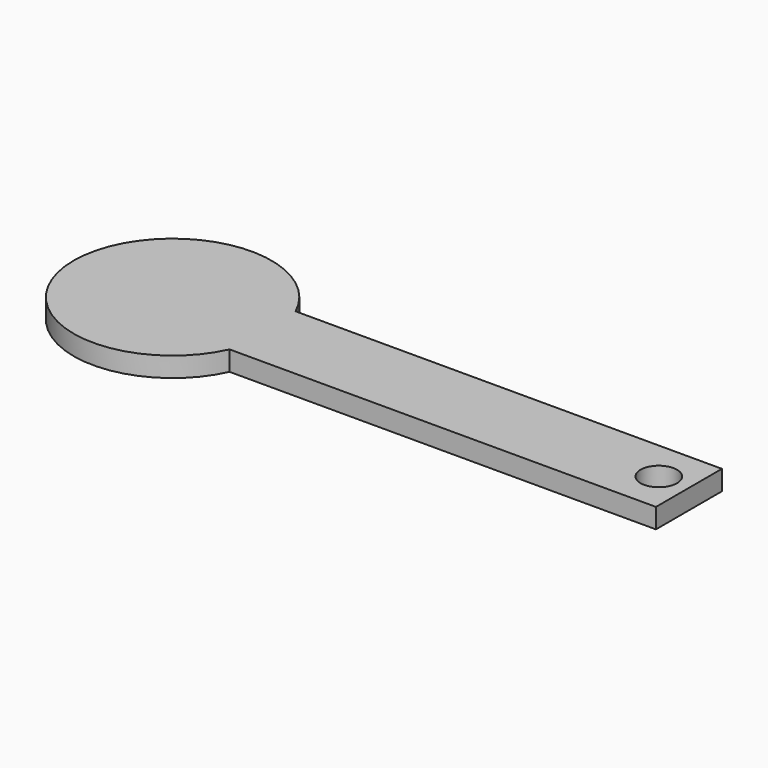
from build123d import *

# Parameters (mm, degrees)
F1_R     = 2.212436
F2_DEPTH = 2.4


with BuildPart() as f2:
    # F1 (on face) → F2 (new body)
    with BuildSketch(Plane.XY):
        with BuildLine():
            Line((50, -10), (50, 0))
            Line((50, 0), (-1.696953, 0))
            ThreePointArc((-1.696953, 0), (-24.605665, -5), (-1.696953, -10))
            Line((-1.696953, -10), (50, -10))
        make_face()
        with Locations((46.315201, -4.957285)):
            Circle(F1_R, mode=Mode.SUBTRACT)
    extrude(amount=F2_DEPTH)


solid = f2.part
